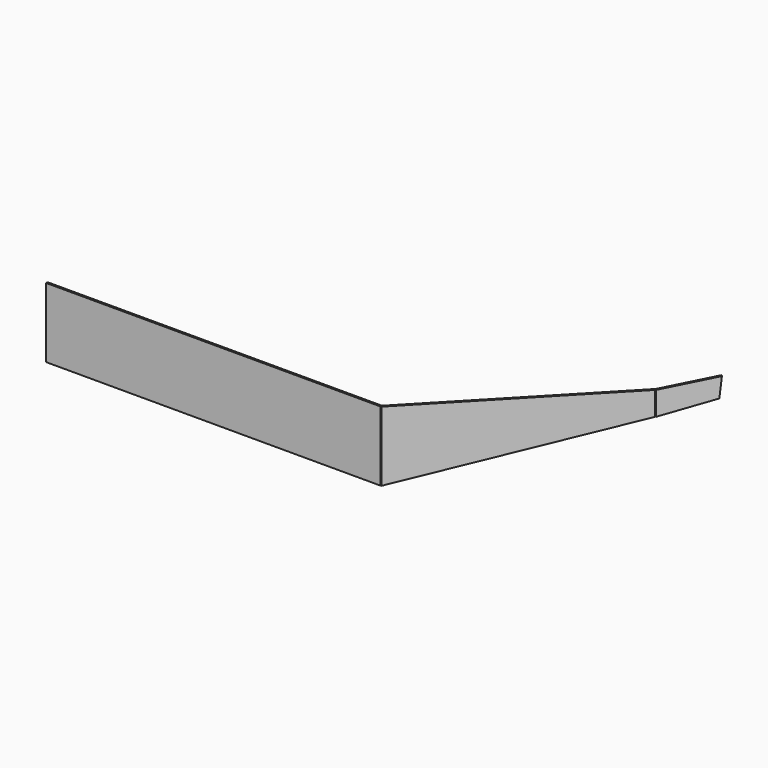
from build123d import *

# Parameters (mm, degrees)
F0_W     = 609.6
F0_H     = 127
F1_DEPTH = 3.175
F4_DEPTH = 3.175
F7_DEPTH = 3.175


with BuildPart() as f1:
    # F0 (on Front) → F1 (new body)
    with BuildSketch(Plane.XZ):
        Rectangle(F0_W, F0_H)
    extrude(amount=F1_DEPTH)


with BuildPart() as f4:
    # F3 (on face) → F4 (new body)
    with BuildSketch(Plane(origin=(54.439168, -116.745173, 0), x_dir=(-0.906308, -0.422618, 0), z_dir=(-0.422618, 0.906308, 0))):
        Polygon((-677.279503, 96.564528), (-276.242613, -63.5), (-276.242613, 63.5), (-677.279503, 139.7), align=None)
    extrude(amount=-F4_DEPTH)


with BuildPart() as f7:
    # F6 (on face) → F7 (new body)
    with BuildSketch(Plane(origin=(249.388671, -249.388671, 0), x_dir=(-0.707107, -0.707107, 0), z_dir=(-0.707107, 0.707107, 0))):
        Polygon((-683.170028, 120.817465), (-592.377553, 96.564528), (-592.377553, 139.7), (-686.837442, 156.463262), align=None)
    extrude(amount=-F7_DEPTH)


solid = Compound([f1.part, f4.part, f7.part])
